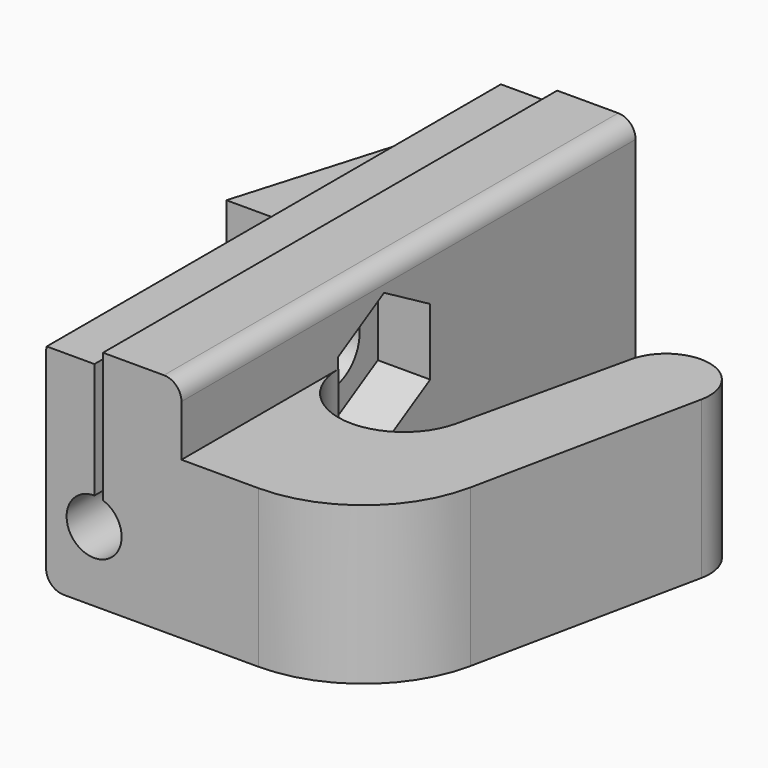
from build123d import *

# Parameters (mm, degrees)
PAD037_DEPTH    = 65
PAD038_DEPTH    = 13
SKETCH098_R     = 4
POCKET036_DEPTH = 32.5
SKETCH099_R     = 3.15
POCKET037_DEPTH = 75
POCKET038_DEPTH = 65
PAD040_DEPTH    = 18
POCKET039_DEPTH = 6


with BuildPart() as part:
    # Sketch095 → Pad037 (new body)
    with BuildSketch(Plane.XZ.offset(66)):
        with BuildLine():
            Line((8, 17.868052), (-3.5, 17.868052))
            ThreePointArc((-3.5, 17.868052), (-4.914214, 17.282266), (-5.5, 15.868052))
            Line((-5.5, 15.868052), (-5.5, -6))
            ThreePointArc((-5.5, -6), (-4.914214, -7.414214), (-3.5, -8))
            Line((-3.5, -8), (8, -8))
            ThreePointArc((8, -8), (9.414214, -7.414214), (10, -6))
            Line((10, -6), (10, 15.868052))
            ThreePointArc((10, 15.868052), (9.414214, 17.282266), (8, 17.868052))
        make_face()
    extrude(amount=-PAD037_DEPTH)

    # Sketch096 → Pad038 (join)
    with BuildSketch(Plane.XY.offset(1)):
        Polygon((-4.849713, -30.253677), (-4.849713, -1.120098), (-13.449671, -30.253677), align=None)
    extrude(amount=PAD038_DEPTH)

    # Sketch098 → Pocket036 (cut, symmetric)
    with BuildSketch(Plane(origin=(0, -37, 7.42), x_dir=(0, 1, 0), z_dir=(1, 0, 0))):
        Circle(SKETCH098_R)
    extrude(amount=POCKET036_DEPTH, both=True, mode=Mode.SUBTRACT)

    # Sketch099 → Pocket037 (cut)
    with BuildSketch(Plane.XZ.offset(1)):
        Circle(SKETCH099_R)
    extrude(amount=POCKET037_DEPTH, mode=Mode.SUBTRACT)

    # Sketch100 → Pocket038 (cut)
    with BuildSketch(Plane.XZ.offset(1)):
        Polygon((-6.320894, 20), (1.017517, 20), (1.017517, 0), (0.034595, 0), (0.034595, 16.403641), (-6.320894, 16.403641), align=None)
    extrude(amount=POCKET038_DEPTH, mode=Mode.SUBTRACT)

    # Sketch103 → Pad040 (join)
    with BuildSketch(Plane.XY.offset(-8)):
        with BuildLine():
            Line((6.490593, -32.616061), (6.490593, -66))
            Line((6.490593, -66), (18.841947, -66))
            ThreePointArc((18.841947, -66), (28.302274, -62.640542), (33.525058, -54.066961))
            Line((33.525058, -54.066961), (39.008216, -27.816282))
            ThreePointArc((39.008216, -27.816282), (35.177971, -21.90851), (29.23767, -25.688111))
            Line((29.23767, -25.688111), (24.814264, -45.192815))
            ThreePointArc((10, -43.534037), (16.665428, -50.987459), (24.814264, -45.192815))
            Line((10, -43.534037), (10, -32.616061))
            Line((6.490593, -32.616061), (10, -32.616061))
        make_face()
    extrude(amount=PAD040_DEPTH)

    # Sketch102 → Pocket039 (cut)
    with BuildSketch(Plane(origin=(10, -37, 7.42), x_dir=(0, 1, 0), z_dir=(1, 0, 0))):
        Polygon((0, 7.621024), (-6.6, 3.810512), (-6.6, -3.810512), (0, -7.621024), (6.6, -3.810512), (6.6, 3.810512), align=None)
    extrude(amount=-POCKET039_DEPTH, mode=Mode.SUBTRACT)


with BuildPart() as part_1:
    # Body022 placement: moved
    add(part.part.moved(Location((33, 20, -24))))


solid = part_1.part
